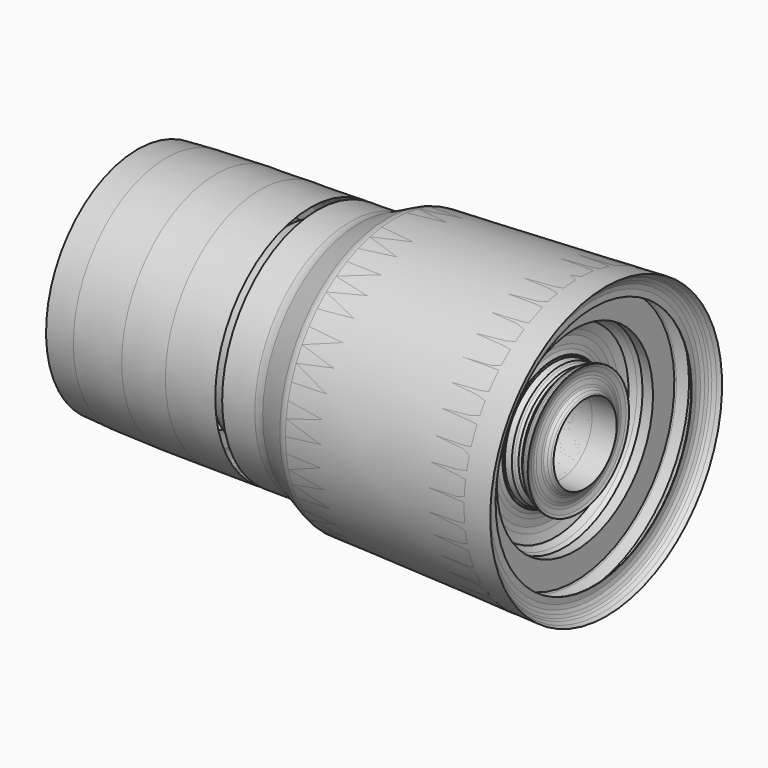
from build123d import *

# Parameters (mm, degrees)
F2_SCALE = 0.0756613287


with BuildPart() as f1:
    # F0 (on Front) → F1 (revolve)
    with BuildSketch(Plane.XZ):
        with BuildLine():
            Line((-43.5350310664, 13.9425402766), (-44.4324761629, 11.901576072))
            Line((-44.4324761629, 11.901576072), (-21.5181661163, 11.9580005952))
            ThreePointArc((-21.5181661163, 11.9580005952), (-20.1449338134, 13.0679735245), (-19.6281764656, 14.7563954815))
            Line((-19.6281764656, 14.7563954815), (-19.6281764656, 32.4443690479))
            ThreePointArc((-19.6281764656, 32.4443690479), (-18.9873165759, 34.0900854867), (-17.4022745341, 34.8690114915))
            Line((-17.4022745341, 34.8690114915), (-9.6116159111, 34.8690114915))
            Line((-9.6116159111, 34.8690114915), (-8.2204267383, 34.5112793148))
            Line((-8.2204267383, 34.5112793148), (-7.4254618958, 33.9150540531))
            Line((-7.4254618958, 33.9150540531), (-6.9882310927, 32.8021012247))
            Line((-6.9882310927, 32.8021012247), (-6.550999824, 28.8670249283))
            Line((-6.550999824, 28.8670249283), (-6.1932657845, 33.8753052056))
            ThreePointArc((-6.1932657845, 33.8753052056), (-5.6484171172, 35.5132241044), (-4.1462532245, 36.3636016846))
            Line((-4.1462532245, 36.3636016846), (-1.924614422, 36.6944856942))
            Line((-1.924614422, 36.6944856942), (1.029692241, 37.0490029454))
            Line((1.029692241, 37.0490029454), (5.9692934155, 37.0490029454))
            Line((5.9692934155, 37.0490029454), (14.6432479546, 38.7891915196))
            Line((14.6432479546, 38.7891915196), (-2.2179803345, 38.5780967772))
            Line((-2.2179803345, 38.5780967772), (-16.9880818576, 38.3801758289))
            Line((-16.9880818576, 38.3801758289), (-33.6312539876, 37.7835184336))
            Line((-33.6312539876, 37.7835184336), (-43.29007864, 37.1475443244))
            Line((-43.29007864, 37.1475443244), (-43.29007864, 32.5764976442))
            Line((-43.29007864, 32.5764976442), (-43.135907501, 32.3568806052))
            Line((-43.135907501, 32.3568806052), (-39.7631563246, 31.0358889401))
            Line((-39.7631563246, 31.0358889401), (-37.686329335, 29.2656626552))
            Line((-37.686329335, 29.2656626552), (-36.3372266293, 25.8929114789))
            Line((-36.3372266293, 25.8929114789), (-36.3372266293, 21.6769725084))
            Line((-36.3372266293, 21.6769725084), (-37.4052636325, 18.8101343811))
            Line((-37.4052636325, 18.8101343811), (-39.2040647566, 16.2805709988))
            Line((-39.2040647566, 16.2805709988), (-41.6212044656, 13.7510066852))
            Line((-41.6212044656, 13.7510066852), (-42.7888818085, 12.908459641))
            Line((-42.7888818085, 12.908459641), (-43.5350310664, 13.9425402766))
        make_face()
    revolve(axis=Axis((50.9343379494, 0, -1.0988855877), (-0.9999969683, 0, -0.0024624068)))


with BuildPart() as f1b:
    # F0 (on Front) → F1, piece 2 (revolve)
    with BuildSketch(Plane.XZ):
        with BuildLine():
            Line((27.9868543148, 38.9562472701), (16.982987237, 38.8184839681))
            Line((16.982987237, 38.8184839681), (18.3773823082, 32.5584560633))
            Line((18.3773823082, 32.5584560633), (7.1510160342, 30.7858716697))
            ThreePointArc((7.1510160342, 30.7858716697), (5.093668628, 27.9570188594), (7.9225214382, 25.8996714532))
            Line((7.9225214382, 25.8996714532), (20.2430872882, 26.053919212))
            Line((20.2430872882, 26.053919212), (19.9212823063, 22.8321719915))
            Line((19.9212823063, 22.8321719915), (19.2122478038, 18.8379492611))
            Line((19.2122478038, 18.8379492611), (20.1339907944, 20.0905762613))
            ThreePointArc((20.1339907944, 20.0905762613), (21.8974039777, 20.8543913022), (23.8100644201, 20.667925477))
            Line((23.8100644201, 20.667925477), (38.4493153758, 12.1056653751))
            Line((38.4493153758, 12.1056653751), (106.7592088808, 12.2738726291))
            Line((106.7592088808, 12.2738726291), (106.2610335699, 12.7027259375))
            Line((106.2610335699, 12.7027259375), (105.560409869, 13.3058565735))
            Line((105.560409869, 13.3058565735), (104.7826459517, 13.9753932242))
            Line((104.7826459517, 13.9753932242), (104.4913455844, 14.587870799))
            Line((104.4913455844, 14.587870799), (104.0120497346, 16.0919576883))
            Line((104.0120497346, 16.0919576883), (103.8016923005, 16.9239961044))
            Line((103.8016923005, 16.9239961044), (103.7993356586, 17.8810413927))
            Line((103.7993356586, 17.8810413927), (104.1302233934, 19.393645227))
            Line((104.1302233934, 19.393645227), (104.4729202986, 20.2917549759))
            Line((104.4729202986, 20.2917549759), (104.0120497346, 20.2917549759))
            Line((104.0120497346, 20.2917549759), (103.2714098692, 20.0407125617))
            Line((103.2714098692, 20.0407125617), (102.1643236613, 19.5141714568))
            Line((102.1643236613, 19.5141714568), (102.1305139222, 18.7740033815))
            Line((102.1305139222, 18.7740033815), (100.8690942685, 18.1740597695))
            Line((100.8690942685, 18.1740597695), (99.7814834118, 18.2237401605))
            Line((99.7814834118, 18.2237401605), (98.9483812871, 18.8107993371))
            Line((98.9483812871, 18.8107993371), (98.381139338, 19.2991085351))
            Line((98.381139338, 19.2991085351), (96.3131263852, 19.6181740612))
            Line((96.3131263852, 19.6181740612), (95.5331847072, 21.6507371515))
            Line((95.5331847072, 21.6507371515), (95.3638926181, 22.9980648058))
            Line((95.3638926181, 22.9980648058), (95.2637717128, 25.305788964))
            Line((95.2637717128, 25.305788964), (95.6314355135, 27.0772688091))
            Line((95.6314355135, 27.0772688091), (96.5673103929, 29.8848990351))
            Line((96.5673103929, 29.8848990351), (98.2695370258, 31.2972012701))
            Line((98.2695370258, 31.2972012701), (99.6127873659, 31.9360643625))
            Line((99.6127873659, 31.9360643625), (103.2714098692, 31.7689441144))
            Line((103.2714098692, 31.7689441144), (103.2714098692, 40.6950674951))
            Line((103.2714098692, 40.6950674951), (103.5946309566, 41.1588214338))
            Line((103.5946309566, 41.1588214338), (105.7820057535, 43.6997744777))
            Line((105.7820057535, 43.6997744777), (106.250717329, 43.7902962303))
            Line((106.250717329, 43.7902962303), (108.8083460927, 43.758649379))
            Line((108.8083460927, 43.758649379), (109.3273426898, 40.1850942157))
            Line((109.3273426898, 40.1850942157), (109.5298753442, 40.1441559626))
            Line((109.5298753442, 40.1441559626), (109.4407364726, 42.1987511218))
            Line((109.4407364726, 42.1987511218), (109.6796393394, 43.6602756381))
            Line((109.6796393394, 43.6602756381), (110.2258637547, 44.7614304721))
            Line((110.2258637547, 44.7614304721), (110.7317730784, 45.7029901445))
            Line((110.7317730784, 45.7029901445), (111.4063262939, 46.2370067835))
            Line((111.4063262939, 46.2370067835), (112.4181255026, 47.0254795501))
            Line((112.4181255026, 47.0254795501), (113.7142032385, 47.6419068873))
            Line((113.7142032385, 47.6419068873), (42.7224934101, 44.5619225502))
            ThreePointArc((42.7224934101, 44.5619225502), (41.5138591962, 44.3794863414), (40.3615646064, 43.9716912806))
            Line((40.3615646064, 43.9716912806), (31.1427116394, 39.5871140063))
            ThreePointArc((31.1427116394, 39.5871140063), (29.5940096799, 39.1254765373), (27.9868543148, 38.9562472701))
        make_face()
    revolve(axis=Axis((50.9343379494, 0, -1.0988855877), (-0.9999969683, 0, -0.0024624068)))


with BuildPart() as f1_1:
    # F2: moved
    add(f1.part.scale(F2_SCALE))


with BuildPart() as f1b_1:
    # F2: moved
    add(f1b.part.scale(F2_SCALE))


with BuildPart() as f4:
    # F3 (on Front) → F4 (revolve)
    with BuildSketch(Plane.XZ):
        with BuildLine():
            Line((7.9149321365, 3.5747647595), (3.2324406181, 3.3716142709))
            ThreePointArc((3.2324406181, 3.3716142709), (3.1409937475, 3.3578109049), (3.0538096077, 3.3269565888))
            Line((3.0538096077, 3.3269565888), (2.3562989429, 2.9952136463))
            ThreePointArc((2.3562989429, 2.9952136463), (2.2391220948, 2.960285542), (2.1175225844, 2.9474814308))
            Line((2.1175225844, 2.9474814308), (1.2849553802, 2.9370580763))
            Line((1.2849553802, 2.9370580763), (1.390457164, 2.4634160471))
            Line((1.390457164, 2.4634160471), (0.5410553749, 2.3292999566))
            ThreePointArc((0.5410553749, 2.3292999566), (0.3853937365, 2.1152651942), (0.5994284989, 1.9596035558))
            Line((0.5994284989, 1.9596035558), (1.5316188818, 1.9712741462))
            Line((1.5316188818, 1.9712741462), (1.5072706893, 1.7275124707))
            Line((1.5072706893, 1.7275124707), (1.4536241967, 1.4253042716))
            Line((1.4536241967, 1.4253042716), (1.5233644961, 1.5200796949))
            ThreePointArc((1.5233644961, 1.5200796949), (1.6567866807, 1.5778709558), (1.8015011112, 1.5637627037))
            Line((1.8015011112, 1.5637627037), (2.9091262901, 0.9159307274))
            Line((2.9091262901, 0.9159307274), (7.4533291331, 0.9271204372))
            Line((7.4533291331, 0.9271204372), (7.3019942206, 1.0573968209))
            Line((7.3019942206, 1.0573968209), (7.2799540477, 1.103737688))
            Line((7.2799540477, 1.103737688), (7.2436898869, 1.2175389006))
            Line((7.2436898869, 1.2175389006), (7.2277739639, 1.2804920327))
            Line((7.2277739639, 1.2804920327), (7.2275956572, 1.3529033508))
            Line((7.2275956572, 1.3529033508), (7.2526310629, 1.4673489668))
            Line((7.2526310629, 1.4673489668), (7.2785599661, 1.5353011437))
            Line((7.2785599661, 1.5353011437), (7.2436898869, 1.5353011437))
            Line((7.2436898869, 1.5353011437), (7.1876520905, 1.5163069411))
            Line((7.1876520905, 1.5163069411), (7.103888477, 1.4764681415))
            Line((7.103888477, 1.4764681415), (7.1013303872, 1.4204660414))
            Line((7.1013303872, 1.4204660414), (7.0058897001, 1.3750735106))
            Line((7.0058897001, 1.3750735106), (6.9235996176, 1.378832395))
            Line((6.9235996176, 1.378832395), (6.8605660039, 1.4232500723))
            Line((6.8605660039, 1.4232500723), (6.8176477243, 1.4601961951))
            Line((6.8176477243, 1.4601961951), (6.6611791164, 1.4843371167))
            Line((6.6611791164, 1.4843371167), (6.6021676928, 1.6381235409))
            Line((6.6021676928, 1.6381235409), (6.5893588284, 1.7400641414))
            Line((6.5893588284, 1.7400641414), (6.5817835476, 1.9146696176))
            Line((6.5817835476, 1.9146696176), (6.6096014793, 2.0487021365))
            Line((6.6096014793, 2.0487021365), (6.6804110162, 2.26113117))
            Line((6.6804110162, 2.26113117), (6.8092037451, 2.3679878336))
            Line((6.8092037451, 2.3679878336), (6.9108358506, 2.4163250641))
            Line((6.9108358506, 2.4163250641), (7.1876520905, 2.403680524))
            Line((7.1876520905, 2.403680524), (7.1876520905, 3.0790428794))
            Line((7.1876520905, 3.0790428794), (7.2121074275, 3.1141311186))
            Line((7.2121074275, 3.1141311186), (7.377607111, 3.3063830022))
            Line((7.377607111, 3.3063830022), (7.4130704516, 3.3132319983))
            Line((7.4130704516, 3.3132319983), (7.6065840423, 3.3108375554))
            Line((7.6065840423, 3.3108375554), (7.6458520144, 3.0404576235))
            Line((7.6458520144, 3.0404576235), (7.6611759042, 3.0373601809))
            Line((7.6611759042, 3.0373601809), (7.6544315387, 3.1928135806))
            Line((7.6544315387, 3.1928135806), (7.672507247, 3.3033944675))
            Line((7.672507247, 3.3033944675), (7.7138353121, 3.3867093054))
            Line((7.7138353121, 3.3867093054), (7.7521130837, 3.4579489613))
            Line((7.7521130837, 3.4579489613), (7.8031506763, 3.4983533697))
            Line((7.8031506763, 3.4983533697), (7.8797047489, 3.5580102669))
            Line((7.8797047489, 3.5580102669), (7.9149321365, 3.5747647595))
        make_face()
    revolve(axis=Axis((2.672301859, 0, -0.0860523823), (-0.9999969683, 0, -0.0024624068)))


with BuildPart() as f4b:
    # F3 (on Front) → F4, piece 2 (revolve)
    with BuildSketch(Plane.XZ):
        with BuildLine():
            Line((-2.5445853636, 2.8587512088), (-3.2753848707, 2.8106325626))
            Line((-3.2753848707, 2.8106325626), (-3.2753848707, 2.4647810971))
            Line((-3.2753848707, 2.4647810971), (-3.2637200775, 2.4481645801))
            Line((-3.2637200775, 2.4481645801), (-3.008533242, 2.3482165955))
            Line((-3.008533242, 2.3482165955), (-2.8513977524, 2.2142789227))
            Line((-2.8513977524, 2.2142789227), (-2.7493228491, 1.9590920872))
            Line((-2.7493228491, 1.9590920872), (-2.7493228491, 1.6401085428))
            Line((-2.7493228491, 1.6401085428), (-2.8301319479, 1.4231997609))
            Line((-2.8301319479, 1.4231997609), (-2.9662316311, 1.2318096343))
            Line((-2.9662316311, 1.2318096343), (-3.1491156332, 1.0404194372))
            Line((-3.1491156332, 1.0404194372), (-3.2374636525, 0.9766712083))
            Line((-3.2374636525, 0.9766712083), (-3.2939182968, 1.0549111232))
            Line((-3.2939182968, 1.0549111232), (-3.3618201852, 0.9004890596))
            Line((-3.3618201852, 0.9004890596), (-1.6280930402, 0.904758214))
            ThreePointArc((-1.6280930402, 0.904758214), (-1.5241924595, 0.9887402407), (-1.4850939119, 1.1164884894))
            Line((-1.4850939119, 1.1164884894), (-1.4850939119, 2.454784072))
            ThreePointArc((-1.4850939119, 2.454784072), (-1.4366056012, 2.5793011644), (-1.3166792142, 2.638235741))
            Line((-1.3166792142, 2.638235741), (-0.7272276311, 2.638235741))
            Line((-0.7272276311, 2.638235741), (-0.6219684097, 2.6111692491))
            Line((-0.6219684097, 2.6111692491), (-0.5618203135, 2.5660580536))
            Line((-0.5618203135, 2.5660580536), (-0.5287388499, 2.4818505638))
            Line((-0.5287388499, 2.4818505638), (-0.4956573512, 2.1841174626))
            Line((-0.4956573512, 2.1841174626), (-0.4685907184, 2.563050603))
            ThreePointArc((-0.4685907184, 2.563050603), (-0.4687305631, 2.5670196193), (-0.4687837056, 2.5709907429))
            ThreePointArc((-0.4687837056, 2.5709907429), (-0.4248103045, 2.6900170098), (-0.3137110282, 2.7513184209))
            Line((-0.3137110282, 2.7513184209), (-0.1456188845, 2.7763535447))
            Line((-0.1456188845, 2.7763535447), (0.0779078831, 2.803176791))
            Line((0.0779078831, 2.803176791), (0.4516446714, 2.803176791))
            Line((0.4516446714, 2.803176791), (1.1079275972, 2.9348417707))
            Line((1.1079275972, 2.9348417707), (-0.1678153392, 2.918870062))
            Line((-0.1678153392, 2.918870062), (-1.2853408459, 2.9038951001))
            Line((-1.2853408459, 2.9038951001), (-2.5445853636, 2.8587512088))
        make_face()
    revolve(axis=Axis((2.672301859, 0, -0.0860523823), (-0.9999969683, 0, -0.0024624068)))


solid = Compound([f1_1.part, f1b_1.part, f4.part, f4b.part])
